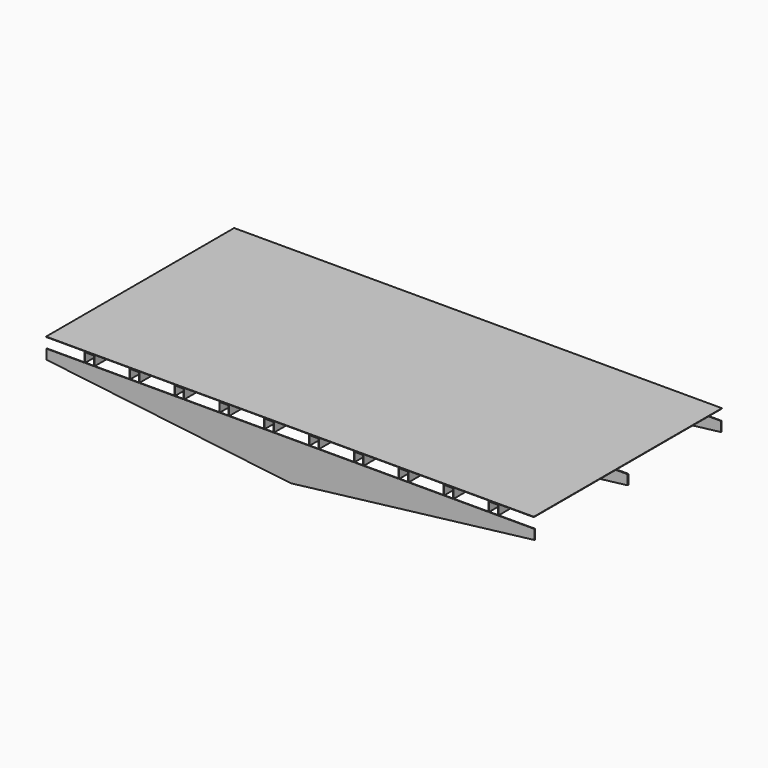
from build123d import *

# Parameters (mm, degrees)
F1_DEPTH  = 5
F2_W      = 2500
F2_H      = 1205
F3_DEPTH  = 2
F7_DEPTH  = 3
F9_DEPTH  = 1200
F12_DEPTH = 3


with BuildPart() as f1:
    # F0 (on Front) → F1 (new body)
    with BuildSketch(Plane.XZ):
        Polygon((-1051.2500025332, 23.1275677681), (-1251.2500025332, 23.1275677681), (-1251.2500025332, -26.8724322319), (0, -176.8724322319), (1248.7499974668, -26.8724322319), (1248.7499974668, 23.1275677681), (1068.7499974668, 23.1275677681), (1066.7499974668, 23.1275677681), (1020.7499974668, 23.1275677681), (1018.7499974668, 23.1275677681), (838.7499974668, 23.1275677681), (836.7499974668, 23.1275677681), (790.7499974668, 23.1275677681), (788.7499974668, 23.1275677681), (608.7499974668, 23.1275677681), (606.7499974668, 23.1275677681), (560.7499974668, 23.1275677681), (558.7499974668, 23.1275677681), (378.7499974668, 23.1275677681), (376.7499974668, 23.1275677681), (330.7499974668, 23.1275677681), (328.7499974668, 23.1275677681), (148.7499974668, 23.1275677681), (146.7499974668, 23.1275677681), (100.7499974668, 23.1275677681), (98.7499974668, 23.1275677681), (-81.2500025332, 23.1275677681), (-83.2500025332, 23.1275677681), (-129.2500025332, 23.1275677681), (-131.2500025332, 23.1275677681), (-311.2500025332, 23.1275677681), (-313.2500025332, 23.1275677681), (-359.2500025332, 23.1275677681), (-361.2500025332, 23.1275677681), (-541.2500025332, 23.1275677681), (-543.2500025332, 23.1275677681), (-589.2500025332, 23.1275677681), (-591.2500025332, 23.1275677681), (-771.2500025332, 23.1275677681), (-773.2500025332, 23.1275677681), (-819.2500025332, 23.1275677681), (-821.2500025332, 23.1275677681), (-1001.2500025332, 23.1275677681), (-1003.2500025332, 23.1275677681), (-1049.2500025332, 23.1275677681), align=None)
        Polygon((-1051.2500025332, 73.1275677681), (-1051.2500025332, 23.1275677681), (-1049.2500025332, 23.1275677681), (-1049.2500025332, 71.1275677681), (-1003.2500025332, 71.1275677681), (-1003.2500025332, 23.1275677681), (-1001.2500025332, 23.1275677681), (-1001.2500025332, 73.1275677681), align=None)
        Polygon((-821.2500025332, 73.1275677681), (-821.2500025332, 23.1275677681), (-819.2500025332, 23.1275677681), (-819.2500025332, 71.1275677681), (-773.2500025332, 71.1275677681), (-773.2500025332, 23.1275677681), (-771.2500025332, 23.1275677681), (-771.2500025332, 73.1275677681), align=None)
        Polygon((1066.7499974668, 23.1275677681), (1068.7499974668, 23.1275677681), (1068.7499974668, 73.1275677681), (1018.7499974668, 73.1275677681), (1018.7499974668, 23.1275677681), (1020.7499974668, 23.1275677681), (1020.7499974668, 71.1275677681), (1066.7499974668, 71.1275677681), align=None)
        Polygon((-591.2500025332, 73.1275677681), (-591.2500025332, 23.1275677681), (-589.2500025332, 23.1275677681), (-589.2500025332, 71.1275677681), (-543.2500025332, 71.1275677681), (-543.2500025332, 23.1275677681), (-541.2500025332, 23.1275677681), (-541.2500025332, 73.1275677681), align=None)
        Polygon((836.7499974668, 23.1275677681), (838.7499974668, 23.1275677681), (838.7499974668, 73.1275677681), (788.7499974668, 73.1275677681), (788.7499974668, 23.1275677681), (790.7499974668, 23.1275677681), (790.7499974668, 71.1275677681), (836.7499974668, 71.1275677681), align=None)
        Polygon((-361.2500025332, 73.1275677681), (-361.2500025332, 23.1275677681), (-359.2500025332, 23.1275677681), (-359.2500025332, 71.1275677681), (-313.2500025332, 71.1275677681), (-313.2500025332, 23.1275677681), (-311.2500025332, 23.1275677681), (-311.2500025332, 73.1275677681), align=None)
        Polygon((606.7499974668, 23.1275677681), (608.7499974668, 23.1275677681), (608.7499974668, 73.1275677681), (558.7499974668, 73.1275677681), (558.7499974668, 23.1275677681), (560.7499974668, 23.1275677681), (560.7499974668, 71.1275677681), (606.7499974668, 71.1275677681), align=None)
        Polygon((-131.2500025332, 73.1275677681), (-131.2500025332, 23.1275677681), (-129.2500025332, 23.1275677681), (-129.2500025332, 71.1275677681), (-83.2500025332, 71.1275677681), (-83.2500025332, 23.1275677681), (-81.2500025332, 23.1275677681), (-81.2500025332, 73.1275677681), align=None)
        Polygon((376.7499974668, 23.1275677681), (378.7499974668, 23.1275677681), (378.7499974668, 73.1275677681), (328.7499974668, 73.1275677681), (328.7499974668, 23.1275677681), (330.7499974668, 23.1275677681), (330.7499974668, 71.1275677681), (376.7499974668, 71.1275677681), align=None)
        Polygon((98.7499974668, 73.1275677681), (98.7499974668, 23.1275677681), (100.7499974668, 23.1275677681), (100.7499974668, 71.1275677681), (146.7499974668, 71.1275677681), (146.7499974668, 23.1275677681), (148.7499974668, 23.1275677681), (148.7499974668, 73.1275677681), align=None)
    extrude(amount=F1_DEPTH)

    # F2 (on face) → F3 (join)
    with BuildSketch(Plane.XY.offset(73.1275677681)):
        with Locations((-1.2500025332, -2.5)):
            Rectangle(F2_W, F2_H)
    extrude(amount=F3_DEPTH)

    # F6 (on offset) → F7 (join)
    with BuildSketch(Plane.XZ.offset(605)):
        Polygon((-1051.2500025332, 23.1275677681), (-1246.1931843898, 23.1275677681), (-1246.1931843898, -26.8724322319), (5.0568181434, -176.8724322319), (1253.8068156102, -26.8724322319), (1253.8068156102, 23.1275677681), (1068.7499974668, 23.1275677681), (1066.7499974668, 23.1275677681), (1020.7499974668, 23.1275677681), (1018.7499974668, 23.1275677681), (838.7499974668, 23.1275677681), (836.7499974668, 23.1275677681), (790.7499974668, 23.1275677681), (788.7499974668, 23.1275677681), (608.7499974668, 23.1275677681), (606.7499974668, 23.1275677681), (560.7499974668, 23.1275677681), (558.7499974668, 23.1275677681), (378.7499974668, 23.1275677681), (376.7499974668, 23.1275677681), (330.7499974668, 23.1275677681), (328.7499974668, 23.1275677681), (148.7499974668, 23.1275677681), (146.7499974668, 23.1275677681), (100.7499974668, 23.1275677681), (98.7499974668, 23.1275677681), (-81.2500025332, 23.1275677681), (-83.2500025332, 23.1275677681), (-129.2500025332, 23.1275677681), (-131.2500025332, 23.1275677681), (-311.2500025332, 23.1275677681), (-313.2500025332, 23.1275677681), (-359.2500025332, 23.1275677681), (-361.2500025332, 23.1275677681), (-541.2500025332, 23.1275677681), (-543.2500025332, 23.1275677681), (-589.2500025332, 23.1275677681), (-591.2500025332, 23.1275677681), (-771.2500025332, 23.1275677681), (-773.2500025332, 23.1275677681), (-819.2500025332, 23.1275677681), (-821.2500025332, 23.1275677681), (-1001.2500025332, 23.1275677681), (-1003.2500025332, 23.1275677681), (-1049.2500025332, 23.1275677681), align=None)
        Polygon((-1051.2500025332, 73.1275677681), (-1051.2500025332, 23.1275677681), (-1049.2500025332, 23.1275677681), (-1049.2500025332, 71.1275677681), (-1003.2500025332, 71.1275677681), (-1003.2500025332, 23.1275677681), (-1001.2500025332, 23.1275677681), (-1001.2500025332, 73.1275677681), align=None)
        Polygon((-821.2500025332, 73.1275677681), (-821.2500025332, 23.1275677681), (-819.2500025332, 23.1275677681), (-819.2500025332, 71.1275677681), (-773.2500025332, 71.1275677681), (-773.2500025332, 23.1275677681), (-771.2500025332, 23.1275677681), (-771.2500025332, 73.1275677681), align=None)
        Polygon((1066.7499974668, 23.1275677681), (1068.7499974668, 23.1275677681), (1068.7499974668, 73.1275677681), (1018.7499974668, 73.1275677681), (1018.7499974668, 23.1275677681), (1020.7499974668, 23.1275677681), (1020.7499974668, 71.1275677681), (1066.7499974668, 71.1275677681), align=None)
        Polygon((-591.2500025332, 73.1275677681), (-591.2500025332, 23.1275677681), (-589.2500025332, 23.1275677681), (-589.2500025332, 71.1275677681), (-543.2500025332, 71.1275677681), (-543.2500025332, 23.1275677681), (-541.2500025332, 23.1275677681), (-541.2500025332, 73.1275677681), align=None)
        Polygon((836.7499974668, 23.1275677681), (838.7499974668, 23.1275677681), (838.7499974668, 73.1275677681), (788.7499974668, 73.1275677681), (788.7499974668, 23.1275677681), (790.7499974668, 23.1275677681), (790.7499974668, 71.1275677681), (836.7499974668, 71.1275677681), align=None)
        Polygon((-361.2500025332, 73.1275677681), (-361.2500025332, 23.1275677681), (-359.2500025332, 23.1275677681), (-359.2500025332, 71.1275677681), (-313.2500025332, 71.1275677681), (-313.2500025332, 23.1275677681), (-311.2500025332, 23.1275677681), (-311.2500025332, 73.1275677681), align=None)
        Polygon((606.7499974668, 23.1275677681), (608.7499974668, 23.1275677681), (608.7499974668, 73.1275677681), (558.7499974668, 73.1275677681), (558.7499974668, 23.1275677681), (560.7499974668, 23.1275677681), (560.7499974668, 71.1275677681), (606.7499974668, 71.1275677681), align=None)
        Polygon((-131.2500025332, 73.1275677681), (-131.2500025332, 23.1275677681), (-129.2500025332, 23.1275677681), (-129.2500025332, 71.1275677681), (-83.2500025332, 71.1275677681), (-83.2500025332, 23.1275677681), (-81.2500025332, 23.1275677681), (-81.2500025332, 73.1275677681), align=None)
        Polygon((376.7499974668, 23.1275677681), (378.7499974668, 23.1275677681), (378.7499974668, 73.1275677681), (328.7499974668, 73.1275677681), (328.7499974668, 23.1275677681), (330.7499974668, 23.1275677681), (330.7499974668, 71.1275677681), (376.7499974668, 71.1275677681), align=None)
        Polygon((98.7499974668, 73.1275677681), (98.7499974668, 23.1275677681), (100.7499974668, 23.1275677681), (100.7499974668, 71.1275677681), (146.7499974668, 71.1275677681), (146.7499974668, 23.1275677681), (148.7499974668, 23.1275677681), (148.7499974668, 73.1275677681), align=None)
    extrude(amount=F7_DEPTH)

    # F8 (on face) → F9 (join)
    with BuildSketch(Plane.XZ.offset(608)):
        Polygon((-1051.2500025332, 73.1275677681), (-1051.2500025332, 23.1275677681), (-1049.2500025332, 23.1275677681), (-1049.2500025332, 71.1275677681), (-1003.2500025332, 71.1275677681), (-1003.2500025332, 23.1275677681), (-1001.2500025332, 23.1275677681), (-1001.2500025332, 73.1275677681), align=None)
        Polygon((-773.2500025332, 71.1275677681), (-773.2500025332, 23.1275677681), (-771.2500025332, 23.1275677681), (-771.2500025332, 73.1275677681), (-821.2500025332, 73.1275677681), (-821.2500025332, 23.1275677681), (-819.2500025332, 23.1275677681), (-819.2500025332, 71.1275677681), align=None)
        Polygon((-543.2500025332, 71.1275677681), (-543.2500025332, 23.1275677681), (-541.2500025332, 23.127567768), (-541.2500025332, 73.1275677681), (-591.2500025332, 73.1275677681), (-591.2500025332, 23.1275677681), (-589.2500025332, 23.1275677681), (-589.2500025332, 71.1275677681), align=None)
        Polygon((-313.2500025332, 71.1275677681), (-313.2500025332, 23.1275677681), (-311.2500025332, 23.127567768), (-311.2500025332, 73.1275677681), (-361.2500025332, 73.1275677681), (-361.2500025332, 23.1275677681), (-359.2500025332, 23.1275677681), (-359.2500025332, 71.1275677681), align=None)
        Polygon((-83.2500025332, 71.1275677681), (-83.2500025332, 23.1275677681), (-81.2500025332, 23.127567768), (-81.2500025332, 73.1275677681), (-131.2500025332, 73.1275677681), (-131.2500025332, 23.1275677681), (-129.2500025332, 23.1275677681), (-129.2500025332, 71.1275677681), align=None)
        Polygon((146.7499974668, 71.1275677681), (146.7499974668, 23.1275677681), (148.7499974668, 23.127567768), (148.7499974668, 73.1275677681), (98.7499974668, 73.1275677681), (98.7499974668, 23.1275677681), (100.7499974668, 23.1275677681), (100.7499974668, 71.1275677681), align=None)
        Polygon((376.7499974668, 71.1275677681), (376.7499974668, 23.1275677681), (378.7499974668, 23.1275677679), (378.7499974668, 73.1275677681), (328.7499974668, 73.1275677681), (328.7499974668, 23.1275677681), (330.7499974668, 23.1275677681), (330.7499974668, 71.1275677681), align=None)
        Polygon((606.7499974668, 71.1275677681), (606.7499974668, 23.1275677681), (608.7499974668, 23.1275677679), (608.7499974668, 73.1275677681), (558.7499974668, 73.1275677681), (558.7499974668, 23.1275677681), (560.7499974668, 23.1275677681), (560.7499974668, 71.1275677681), align=None)
        Polygon((836.7499974668, 71.1275677681), (836.7499974668, 23.1275677681), (838.7499974668, 23.1275677679), (838.7499974668, 73.1275677681), (788.7499974668, 73.1275677681), (788.7499974668, 23.1275677681), (790.7499974668, 23.1275677681), (790.7499974668, 71.1275677681), align=None)
        Polygon((1066.7499974668, 71.1275677681), (1066.7499974668, 23.1275677681), (1068.7499974668, 23.1275677679), (1068.7499974668, 73.1275677681), (1018.7499974668, 73.1275677681), (1018.7499974668, 23.1275677681), (1020.7499974668, 23.1275677681), (1020.7499974668, 71.1275677681), align=None)
    extrude(amount=-F9_DEPTH)

    # F11 (on offset) → F12 (join)
    with BuildSketch(Plane.XZ.offset(-592)):
        Polygon((-1046.1931843898, 23.1275677681), (-1246.1931843898, 23.1275677681), (-1246.1931843898, -26.8724322319), (5.0568181434, -176.8724322319), (1253.8068156102, -26.8724322319), (1253.8068156102, 23.1275677681), (1073.8068156102, 23.1275677681), (1071.8068156102, 23.1275677681), (1025.8068156102, 23.1275677681), (1023.8068156102, 23.1275677681), (843.8068156102, 23.1275677681), (841.8068156102, 23.1275677681), (795.8068156102, 23.1275677681), (793.8068156102, 23.1275677681), (613.8068156102, 23.1275677681), (611.8068156102, 23.1275677681), (565.8068156102, 23.1275677681), (563.8068156102, 23.1275677681), (383.8068156102, 23.1275677681), (381.8068156102, 23.1275677681), (335.8068156102, 23.1275677681), (333.8068156102, 23.1275677681), (153.8068156102, 23.1275677681), (151.8068156102, 23.1275677681), (105.8068156102, 23.1275677681), (103.8068156102, 23.1275677681), (-76.1931843898, 23.1275677681), (-78.1931843898, 23.1275677681), (-124.1931843898, 23.1275677681), (-126.1931843898, 23.1275677681), (-306.1931843898, 23.1275677681), (-308.1931843898, 23.1275677681), (-354.1931843898, 23.1275677681), (-356.1931843898, 23.1275677681), (-536.1931843898, 23.1275677681), (-538.1931843898, 23.1275677681), (-584.1931843898, 23.1275677681), (-586.1931843898, 23.1275677681), (-766.1931843898, 23.1275677681), (-768.1931843898, 23.1275677681), (-814.1931843898, 23.1275677681), (-816.1931843898, 23.1275677681), (-996.1931843898, 23.1275677681), (-998.1931843898, 23.1275677681), (-1044.1931843898, 23.1275677681), align=None)
        Polygon((-1046.1931843898, 73.1275677681), (-1046.1931843898, 23.1275677681), (-1044.1931843898, 23.1275677681), (-1044.1931843898, 71.1275677681), (-998.1931843898, 71.1275677681), (-998.1931843898, 23.1275677681), (-996.1931843898, 23.1275677681), (-996.1931843898, 73.1275677681), align=None)
        Polygon((-816.1931843898, 73.1275677681), (-816.1931843898, 23.1275677681), (-814.1931843898, 23.1275677681), (-814.1931843898, 71.1275677681), (-768.1931843898, 71.1275677681), (-768.1931843898, 23.1275677681), (-766.1931843898, 23.1275677681), (-766.1931843898, 73.1275677681), align=None)
        Polygon((1071.8068156102, 23.1275677681), (1073.8068156102, 23.1275677681), (1073.8068156102, 73.1275677681), (1023.8068156102, 73.1275677681), (1023.8068156102, 23.1275677681), (1025.8068156102, 23.1275677681), (1025.8068156102, 71.1275677681), (1071.8068156102, 71.1275677681), align=None)
        Polygon((-586.1931843898, 73.1275677681), (-586.1931843898, 23.1275677681), (-584.1931843898, 23.1275677681), (-584.1931843898, 71.1275677681), (-538.1931843898, 71.1275677681), (-538.1931843898, 23.1275677681), (-536.1931843898, 23.1275677681), (-536.1931843898, 73.1275677681), align=None)
        Polygon((841.8068156102, 23.1275677681), (843.8068156102, 23.1275677681), (843.8068156102, 73.1275677681), (793.8068156102, 73.1275677681), (793.8068156102, 23.1275677681), (795.8068156102, 23.1275677681), (795.8068156102, 71.1275677681), (841.8068156102, 71.1275677681), align=None)
        Polygon((-356.1931843898, 73.1275677681), (-356.1931843898, 23.1275677681), (-354.1931843898, 23.1275677681), (-354.1931843898, 71.1275677681), (-308.1931843898, 71.1275677681), (-308.1931843898, 23.1275677681), (-306.1931843898, 23.1275677681), (-306.1931843898, 73.1275677681), align=None)
        Polygon((611.8068156102, 23.1275677681), (613.8068156102, 23.1275677681), (613.8068156102, 73.1275677681), (563.8068156102, 73.1275677681), (563.8068156102, 23.1275677681), (565.8068156102, 23.1275677681), (565.8068156102, 71.1275677681), (611.8068156102, 71.1275677681), align=None)
        Polygon((-126.1931843898, 73.1275677681), (-126.1931843898, 23.1275677681), (-124.1931843898, 23.1275677681), (-124.1931843898, 71.1275677681), (-78.1931843898, 71.1275677681), (-78.1931843898, 23.1275677681), (-76.1931843898, 23.1275677681), (-76.1931843898, 73.1275677681), align=None)
        Polygon((381.8068156102, 23.1275677681), (383.8068156102, 23.1275677681), (383.8068156102, 73.1275677681), (333.8068156102, 73.1275677681), (333.8068156102, 23.1275677681), (335.8068156102, 23.1275677681), (335.8068156102, 71.1275677681), (381.8068156102, 71.1275677681), align=None)
        Polygon((103.8068156102, 73.1275677681), (103.8068156102, 23.1275677681), (105.8068156102, 23.1275677681), (105.8068156102, 71.1275677681), (151.8068156102, 71.1275677681), (151.8068156102, 23.1275677681), (153.8068156102, 23.1275677681), (153.8068156102, 73.1275677681), align=None)
    extrude(amount=F12_DEPTH)


solid = f1.part
